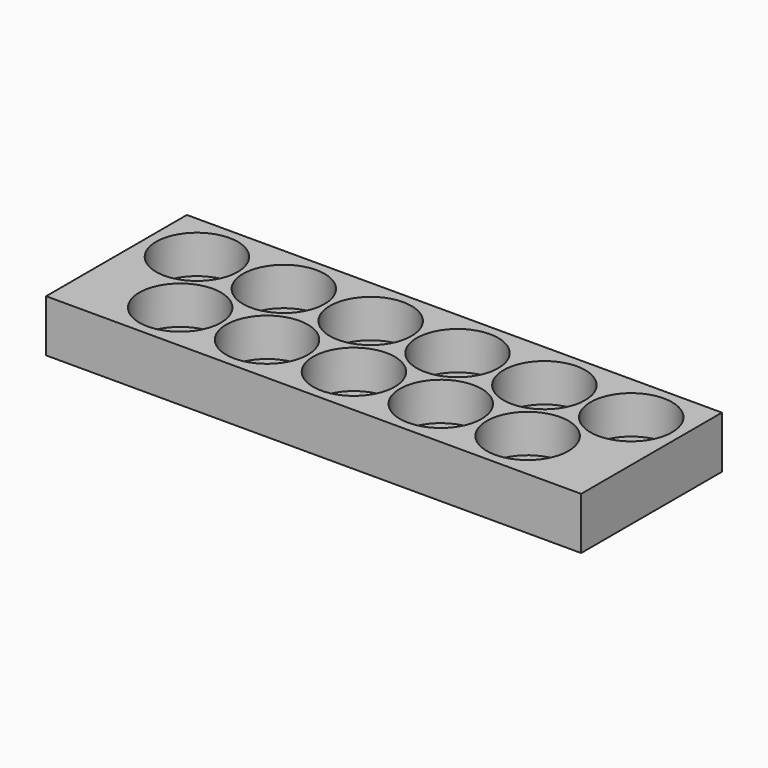
from build123d import *

# Parameters (mm, degrees)
F0_W     = 154
F0_H     = 50.650635
F0_R     = 11.75
F1_DEPTH = 4
F2_DEPTH = 11


with BuildPart() as f1:
    # F0 (on Top) → F1 (new body)
    with BuildSketch(Plane.XY):
        with Locations((-15.256856, 36.523289)):
            Rectangle(F0_W, F0_H)
        with Locations((-65.256856, 25.697972)):
            Circle(F0_R, mode=Mode.SUBTRACT)
        with Locations((-40.256856, 25.697972)):
            Circle(F0_R, mode=Mode.SUBTRACT)
        with Locations((-15.256856, 25.697972)):
            Circle(F0_R, mode=Mode.SUBTRACT)
        with Locations((9.743144, 25.697972)):
            Circle(F0_R, mode=Mode.SUBTRACT)
        with Locations((34.743144, 25.697972)):
            Circle(F0_R, mode=Mode.SUBTRACT)
        with Locations((-77.756856, 47.348607)):
            Circle(F0_R, mode=Mode.SUBTRACT)
        with Locations((-52.756856, 47.348607)):
            Circle(F0_R, mode=Mode.SUBTRACT)
        with Locations((-27.756856, 47.348607)):
            Circle(F0_R, mode=Mode.SUBTRACT)
        with Locations((-2.756856, 47.348607)):
            Circle(F0_R, mode=Mode.SUBTRACT)
        with Locations((22.243144, 47.348607)):
            Circle(F0_R, mode=Mode.SUBTRACT)
        with Locations((47.243144, 47.348607)):
            Circle(F0_R, mode=Mode.SUBTRACT)
        with Locations((-77.756856, 47.348607)):
            Circle(F0_R)
        with Locations((-65.256856, 25.697972)):
            Circle(F0_R)
        with Locations((-52.756856, 47.348607)):
            Circle(F0_R)
        with Locations((-40.256856, 25.697972)):
            Circle(F0_R)
        with Locations((-27.756856, 47.348607)):
            Circle(F0_R)
        with Locations((-2.756856, 47.348607)):
            Circle(F0_R)
        with Locations((-15.256856, 25.697972)):
            Circle(F0_R)
        with Locations((9.743144, 25.697972)):
            Circle(F0_R)
        with Locations((47.243144, 47.348607)):
            Circle(F0_R)
        with Locations((34.743144, 25.697972)):
            Circle(F0_R)
        with Locations((22.243144, 47.348607)):
            Circle(F0_R)
    extrude(amount=-F1_DEPTH)

    # F0 (on Top) → F2 (join)
    with BuildSketch(Plane.XY):
        with Locations((-15.256856, 36.523289)):
            Rectangle(F0_W, F0_H)
        with Locations((-65.256856, 25.697972)):
            Circle(F0_R, mode=Mode.SUBTRACT)
        with Locations((-40.256856, 25.697972)):
            Circle(F0_R, mode=Mode.SUBTRACT)
        with Locations((-15.256856, 25.697972)):
            Circle(F0_R, mode=Mode.SUBTRACT)
        with Locations((9.743144, 25.697972)):
            Circle(F0_R, mode=Mode.SUBTRACT)
        with Locations((34.743144, 25.697972)):
            Circle(F0_R, mode=Mode.SUBTRACT)
        with Locations((-77.756856, 47.348607)):
            Circle(F0_R, mode=Mode.SUBTRACT)
        with Locations((-52.756856, 47.348607)):
            Circle(F0_R, mode=Mode.SUBTRACT)
        with Locations((-27.756856, 47.348607)):
            Circle(F0_R, mode=Mode.SUBTRACT)
        with Locations((-2.756856, 47.348607)):
            Circle(F0_R, mode=Mode.SUBTRACT)
        with Locations((22.243144, 47.348607)):
            Circle(F0_R, mode=Mode.SUBTRACT)
        with Locations((47.243144, 47.348607)):
            Circle(F0_R, mode=Mode.SUBTRACT)
    extrude(amount=F2_DEPTH)


solid = f1.part
